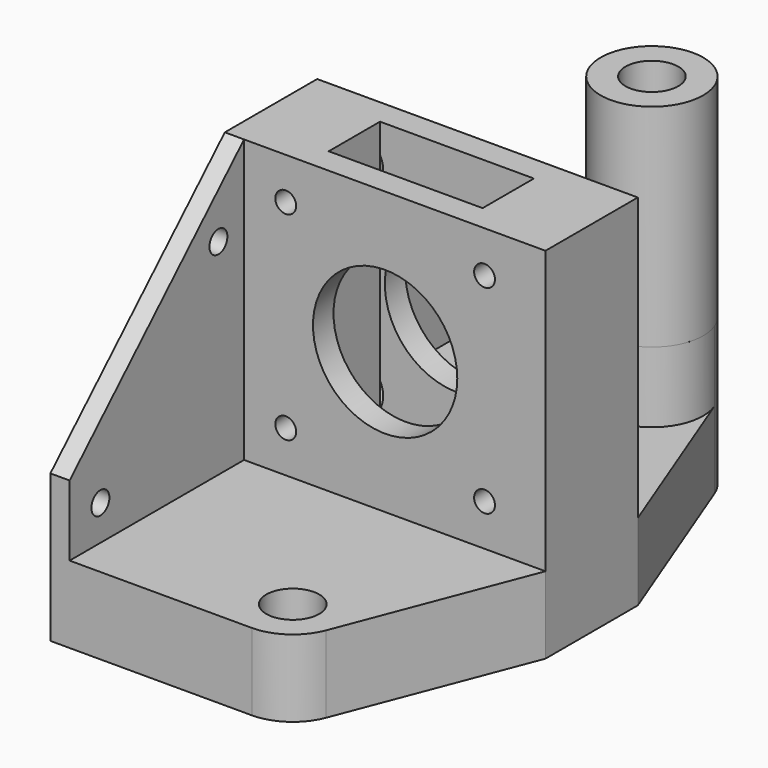
from build123d import *

# Parameters (mm, degrees)
F0_R      = 4.125
F0_W      = 24
F0_H      = 10
F1_DEPTH  = 12
F2_W      = 50
F2_H      = 18
F2_W_2    = 24
F2_H_2    = 10
F3_DEPTH  = 44
F4_R      = 1.625
F4_R_2    = 11.25
F5_DEPTH  = 52.001
F7_DEPTH  = 3
F8_R      = 4.125
F9_DEPTH  = 11
F10_R     = 4
F11_DEPTH = 4
F12_R     = 8
F12_R_2   = 4.125
F13_DEPTH = 33
F14_R     = 1.75
F15_DEPTH = 25


with BuildPart() as f1:
    # F0 (on Top) → F1 (new body)
    with BuildSketch(Plane.XY):
        with BuildLine():
            Line((6.4, 43), (-25, 43))
            Line((-25, 43), (-25, -43))
            Line((-25, -43), (6.4, -43))
            ThreePointArc((6.4, -43), (10.926239, -41.596451), (13.864278, -37.878291))
            Line((13.864278, -37.878291), (25, -9))
            Line((25, -9), (25, 9))
            Line((25, 9), (13.864278, 37.878291))
            ThreePointArc((13.864278, 37.878291), (10.926239, 41.596451), (6.4, 43))
        make_face()
        with Locations((6.4, -35)):
            Circle(F0_R, mode=Mode.SUBTRACT)
        Rectangle(F0_W, F0_H, mode=Mode.SUBTRACT)
        with Locations((6.4, 35)):
            Circle(F0_R, mode=Mode.SUBTRACT)
    extrude(amount=F1_DEPTH)

    # F2 (on face) → F3 (join)
    with BuildSketch(Plane.XY.offset(12)):
        Rectangle(F2_W, F2_H)
        Rectangle(F2_W_2, F2_H_2, mode=Mode.SUBTRACT)
    extrude(amount=F3_DEPTH)

    # F4 (on face) → F5 (cut, through all)
    with BuildSketch(Plane.XZ.offset(9)):
        with Locations((-15.5, 18.5)):
            Circle(F4_R)
        with Locations((-15.5, 49.5)):
            Circle(F4_R)
        with Locations((15.5, 18.5)):
            Circle(F4_R)
        with Locations((15.5, 49.5)):
            Circle(F4_R)
        with Locations((0, 34)):
            Circle(F4_R_2)
    extrude(amount=-F5_DEPTH, mode=Mode.SUBTRACT)

    # F6 (on face) → F7 (join)
    with BuildSketch(Plane(origin=(-25, 0, 0), x_dir=(0, -1, 0), z_dir=(-1, 0, 0))):
        Polygon((-43, 23), (-43, 12), (-9, 12), (-9, 56), align=None)
        Polygon((43, 23), (9, 56), (9, 12), (43, 12), align=None)
    extrude(amount=-F7_DEPTH)

    # F8 (on face) → F9 (join)
    with BuildSketch(Plane.XY.offset(12)):
        with BuildLine():
            Line((9.4, 9), (9.4, 27.583802))
            ThreePointArc((9.4, 27.583802), (13.739578, 31.81714), (13.864278, 37.878291))
            ThreePointArc((13.864278, 37.878291), (10.926239, 41.596451), (6.4, 43))
            Line((6.4, 43), (-22, 43))
            Line((-22, 43), (-22, 37))
            Line((-22, 37), (-1.345967, 37))
            ThreePointArc((-1.345967, 37), (-0.743889, 31.399326), (3.4, 27.583802))
            Line((3.4, 27.583802), (3.4, 9))
            Line((3.4, 9), (6.4, 9))
            Line((6.4, 9), (9.4, 9))
        make_face()
        with Locations((6.4, 35)):
            Circle(F8_R, mode=Mode.SUBTRACT)
    extrude(amount=F9_DEPTH)

    # F10 (on face) → F11 (cut)
    with BuildSketch(Plane(origin=(0, 9, 0), x_dir=(-1, 0, 0), z_dir=(0, 1, 0))):
        with Locations((-15.5, 18.5)):
            Circle(F10_R)
        with Locations((-15.5, 49.5)):
            Circle(F10_R)
        with Locations((15.5, 18.5)):
            Circle(F10_R)
        with Locations((15.5, 49.5)):
            Circle(F10_R)
    extrude(amount=-F11_DEPTH, mode=Mode.SUBTRACT)

    # F12 (on face) → F13 (join, through all)
    with BuildSketch(Plane.XY.offset(23)):
        with Locations((6.4, 35)):
            Circle(F12_R)
        with Locations((6.4, 35)):
            Circle(F12_R_2, mode=Mode.SUBTRACT)
    extrude(amount=F13_DEPTH)

    # F14 (on face) → F15 (cut)
    with BuildSketch(Plane.YZ.offset(-22)):
        with Locations((-37, 17.5)):
            Circle(F14_R)
        with Locations((-14, 44)):
            Circle(F14_R)
        with Locations((14, 44)):
            Circle(F14_R)
    extrude(amount=-F15_DEPTH, mode=Mode.SUBTRACT)


solid = f1.part
